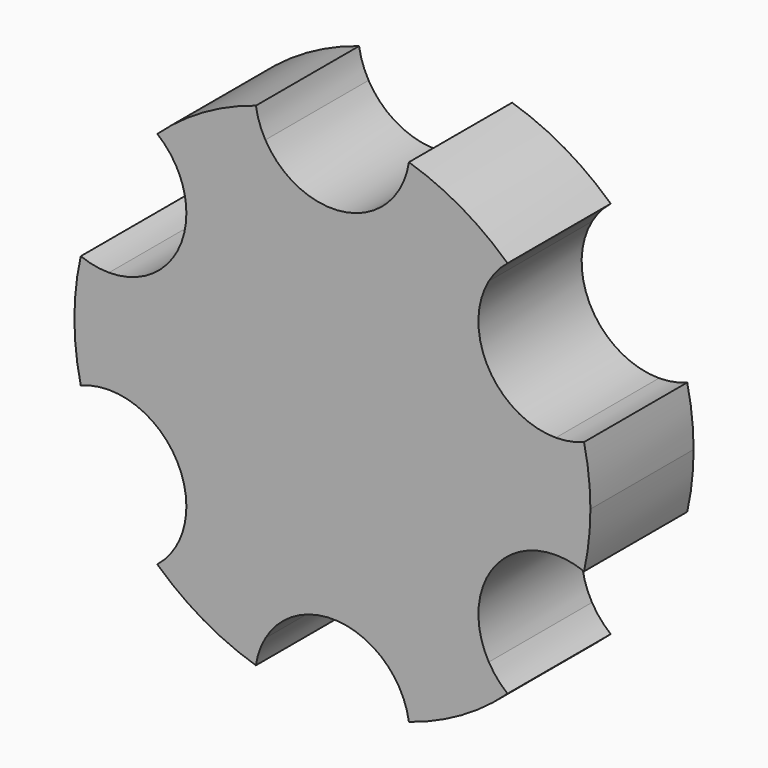
from build123d import *

# Parameters (mm, degrees)
F2_DEPTH = 10


with BuildPart() as f2:
    # F1 (on offset) → F2 (new body)
    with BuildSketch(Plane.XZ.offset(-20)):
        with BuildLine():
            ThreePointArc((12.124355653, 13), (12.7707828093, 13.9115214431), (13.5750272223, 14.6873631369))
            ThreePointArc((13.5750272223, 14.6873631369), (10, 17.3205080757), (5.93211598, 19.1))
            ThreePointArc((5.93211598, 19.1), (5.6623395704, 18.0155830606), (5.1961524227, 17))
            Line((5.1961524227, 17), (12.124355653, 13))
        make_face()
        with BuildLine():
            ThreePointArc((19.5071432023, -4.4126368631), (19.8764039007, -2.2200378324), (20, 0))
            ThreePointArc((20, 0), (19.8764039007, 2.2200378324), (19.5071432023, 4.4126368631))
            ThreePointArc((19.5071432023, 4.4126368631), (18.4331223797, 4.1040616175), (17.3205080757, 4))
            Line((17.3205080757, 4), (17.3205080757, -4))
            ThreePointArc((17.3205080757, -4), (18.4331223797, -4.1040616175), (19.5071432023, -4.4126368631))
        make_face()
        with BuildLine():
            Line((17.3205080757, -4), (17.3205080757, 4))
            ThreePointArc((17.3205080757, 4), (12.124355653, 7), (12.124355653, 13))
            Line((12.124355653, 13), (5.1961524227, 17))
            ThreePointArc((5.1961524227, 17), (0, 14), (-5.1961524227, 17))
            Line((-5.1961524227, 17), (-12.124355653, 13))
            ThreePointArc((-12.124355653, 13), (-11.524953118, 11.5529142706), (-11.3205080757, 10))
            ThreePointArc((-11.3205080757, 10), (-13.0778673886, 5.7573593129), (-17.3205080757, 4))
            Line((-17.3205080757, 4), (-17.3205080757, -4))
            ThreePointArc((-17.3205080757, -4), (-13.0778673886, -5.7573593129), (-11.3205080757, -10))
            ThreePointArc((-11.3205080757, -10), (-11.524953118, -11.5529142706), (-12.124355653, -13))
            Line((-12.124355653, -13), (-5.1961524227, -17))
            ThreePointArc((-5.1961524227, -17), (0, -14), (5.1961524227, -17))
            Line((5.1961524227, -17), (12.124355653, -13))
            ThreePointArc((12.124355653, -13), (12.124355653, -7), (17.3205080757, -4))
        make_face()
        with BuildLine():
            ThreePointArc((5.93211598, -19.1), (10, -17.3205080757), (13.5750272223, -14.6873631369))
            ThreePointArc((13.5750272223, -14.6873631369), (12.7707828093, -13.9115214431), (12.124355653, -13))
            Line((12.124355653, -13), (5.1961524227, -17))
            ThreePointArc((5.1961524227, -17), (5.6623395704, -18.0155830606), (5.93211598, -19.1))
        make_face()
        with BuildLine():
            ThreePointArc((-5.93211598, -19.1), (-5.6623395704, -18.0155830606), (-5.1961524227, -17))
            Line((-5.1961524227, -17), (-12.124355653, -13))
            ThreePointArc((-12.124355653, -13), (-12.7707828093, -13.9115214431), (-13.5750272223, -14.6873631369))
            ThreePointArc((-13.5750272223, -14.6873631369), (-10, -17.3205080757), (-5.93211598, -19.1))
        make_face()
        with BuildLine():
            Line((-12.124355653, 13), (-5.1961524227, 17))
            ThreePointArc((-5.1961524227, 17), (-5.6623395704, 18.0155830606), (-5.93211598, 19.1))
            ThreePointArc((-5.93211598, 19.1), (-10, 17.3205080757), (-13.5750272223, 14.6873631369))
            ThreePointArc((-13.5750272223, 14.6873631369), (-12.7707828093, 13.9115214431), (-12.124355653, 13))
        make_face()
        with BuildLine():
            ThreePointArc((-17.3205080757, 4), (-18.4331223797, 4.1040616175), (-19.5071432023, 4.4126368631))
            ThreePointArc((-19.5071432023, 4.4126368631), (-20, 0), (-19.5071432023, -4.4126368631))
            ThreePointArc((-19.5071432023, -4.4126368631), (-18.4331223797, -4.1040616175), (-17.3205080757, -4))
            Line((-17.3205080757, -4), (-17.3205080757, 4))
        make_face()
    extrude(amount=F2_DEPTH)


solid = f2.part
